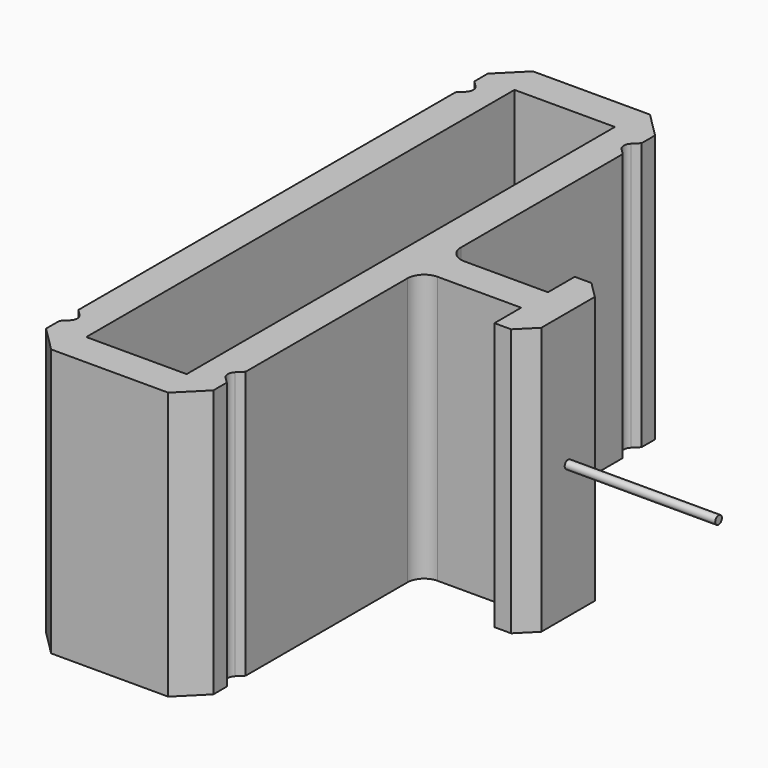
from build123d import *

# Parameters (mm, degrees)
F0_W     = 76.2
F0_H     = 406.4
F0_W_2   = 25.4
F0_H_2   = 25.4
F1_DEPTH = 203.2
F2_R     = 6.35
F3_R     = 12.7
F4_SIZE  = 12.7
F5_R     = 3.175
F6_DEPTH = 114.3


with BuildPart() as f1:
    # F0 (on Top) → F1 (new body)
    with BuildSketch(Plane.XY):
        Polygon((0, 19.00799), (19.040657, 0), (107.959343, 0), (127, 19.00799), (127, 31.727383), (118.014842, 40.727982), (127, 49.697725), (127, 215.9), (203.2, 215.9), (228.6, 215.9), (228.6, 241.3), (203.2, 241.3), (127, 241.3), (127, 407.502275), (118.014842, 416.472018), (127, 425.472617), (127, 438.19201), (107.959343, 457.2), (19.040657, 457.2), (0, 438.19201), (0, 425.472617), (8.985158, 416.472018), (0, 407.502275), (0, 49.697725), (8.985158, 40.727982), (0, 31.727383), align=None)
        with Locations((63.5, 228.6)):
            Rectangle(F0_W, F0_H, mode=Mode.SUBTRACT)
        with Locations((215.9, 203.2)):
            Rectangle(F0_W_2, F0_H_2)
        with Locations((215.9, 254)):
            Rectangle(F0_W_2, F0_H_2)
    extrude(amount=F1_DEPTH)

    # F2
    f2_edges = [f1.edges().sort_by_distance(p)[0] for p in [
        (118.014842, 416.472018, 101.6),
        (8.985158, 416.472018, 101.6),
        (8.985158, 40.727982, 101.6),
        (118.014842, 40.727982, 101.6),
    ]]
    fillet(f2_edges, radius=F2_R)

    # F3
    f3_edges = [f1.edges().sort_by_distance(p)[0] for p in [
        (127, 215.9, 101.6),
        (127, 241.3, 101.6),
    ]]
    fillet(f3_edges, radius=F3_R)

    # F4
    f4_edges = [f1.edges().sort_by_distance(p)[0] for p in [
        (228.6, 190.5, 101.6),
        (228.6, 266.7, 101.6),
    ]]
    chamfer(f4_edges, length=F4_SIZE)

    # F5 (on face) → F6 (join)
    with BuildSketch(Plane.YZ.offset(228.6)):
        with Locations((228.6, 101.6)):
            Circle(F5_R)
    extrude(amount=F6_DEPTH)


solid = f1.part
